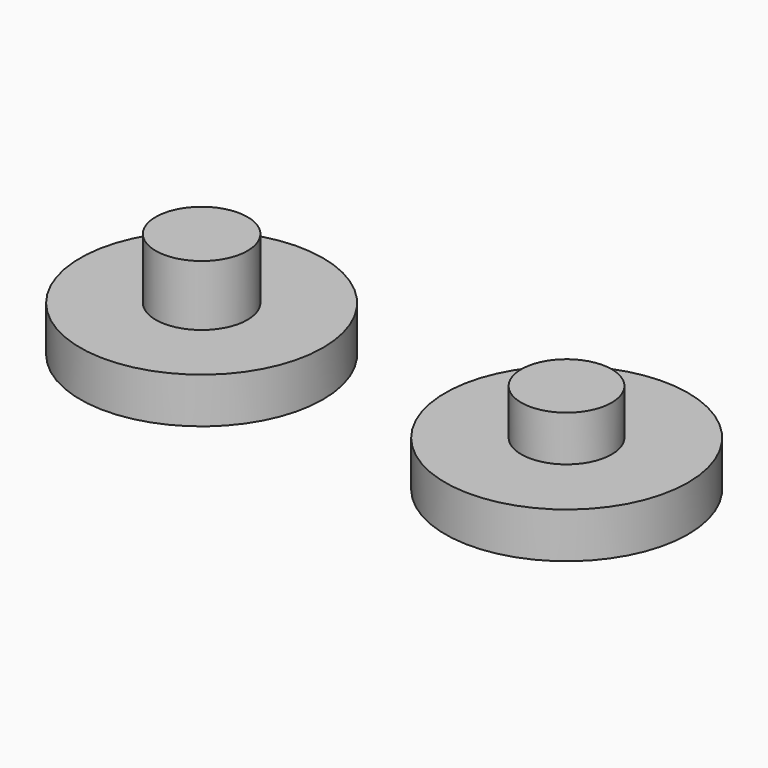
from build123d import *

# Parameters (mm, degrees)
F0_R     = 8
F3_DEPTH = 3
F1_R     = 2.980231
F4_DEPTH = 6
F2_R     = 3.02413
F5_DEPTH = 7


with BuildPart() as f3:
    # F0 (on Top) → F3 (new body)
    with BuildSketch(Plane.XY):
        Circle(F0_R)
        with Locations((24.046564, 0)):
            Circle(F0_R)
    extrude(amount=F3_DEPTH)

    # F1 (on Top) → F4 (join)
    with BuildSketch(Plane.XY):
        with Locations((24.036163, 0)):
            Circle(F1_R)
    extrude(amount=F4_DEPTH)


with BuildPart() as f5:
    # F2 (on face) → F5 (new body)
    with BuildSketch(Plane.XY):
        Circle(F2_R)
    extrude(amount=F5_DEPTH)


solid = Compound([f3.part, f5.part])
